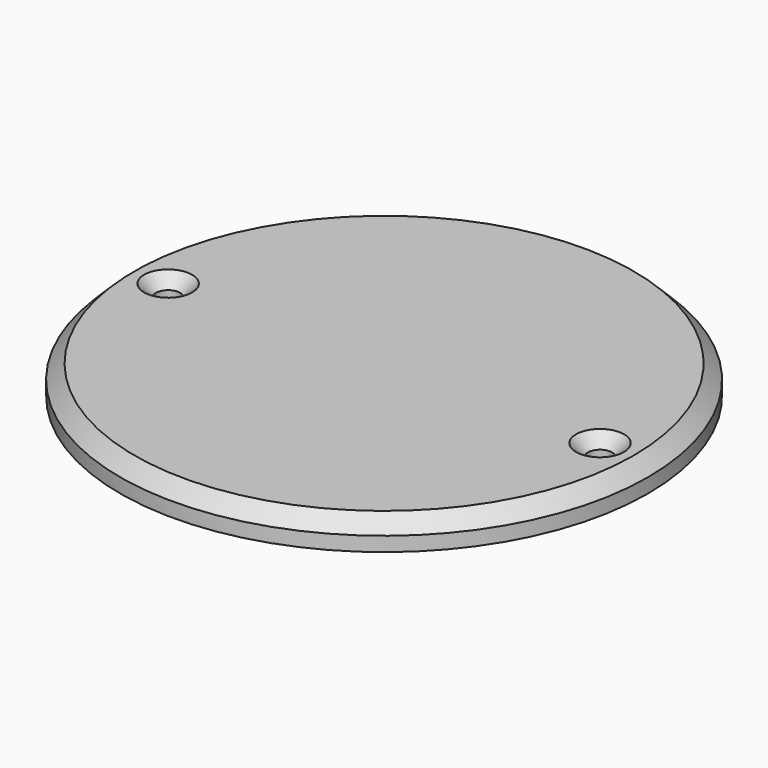
from build123d import *

# Parameters (mm, degrees)
F0_R     = 55
F0_R_2   = 2.5
F1_DEPTH = 6
F2_SIZE  = 3
F3_SIZE  = 2.5


with BuildPart() as f1:
    # F0 (on Top) → F1 (new body)
    with BuildSketch(Plane.XY):
        Circle(F0_R)
        with Locations((-45, 0)):
            Circle(F0_R_2, mode=Mode.SUBTRACT)
        with Locations((45, 0)):
            Circle(F0_R_2, mode=Mode.SUBTRACT)
    extrude(amount=F1_DEPTH)

    # F2
    f2_edges = [f1.edges().sort_by_distance(p)[0] for p in [
        (-55, 0, 6),
    ]]
    chamfer(f2_edges, length=F2_SIZE)

    # F3
    f3_edges = [f1.edges().sort_by_distance(p)[0] for p in [
        (-47.5, 0, 6),
        (42.5, 0, 6),
    ]]
    chamfer(f3_edges, length=F3_SIZE)


solid = f1.part
